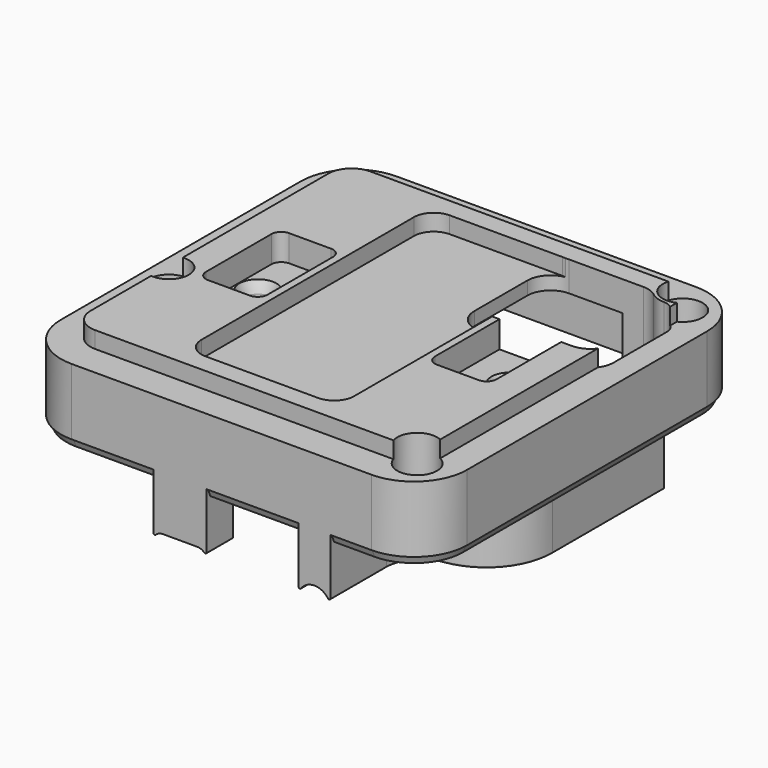
from build123d import *

# Parameters (mm, degrees)
PAD016_DEPTH         = 27.5
POCKET034_DEPTH      = 185.6284208373
SKETCH105_W          = 70
SKETCH105_H          = 70
POCKET036_DEPTH      = 2.501
SKETCH114_W          = 70
SKETCH114_H          = 16
POCKET051_DEPTH      = 30.601
POCKET051_DEPTH_BACK = 30.601
PAD020_DEPTH         = 5
SKETCH134_R          = 2.3
SKETCH135_R          = 4
POCKET052_DEPTH      = 9
POCKET053_DEPTH      = 0.001
POCKET053_DEPTH_BACK = 22.501
SKETCH138_R          = 6.5
POCKET054_DEPTH      = 12.8357525158
POCKET056_DEPTH      = 2.5010001


with BuildPart() as part:
    # Sketch096 → Pad016 (new body)
    with BuildSketch(Plane.XY.offset(2.5)):
        with BuildLine():
            Line((-22.6, 30.6), (22.6, 30.6))
            ThreePointArc((30.6, 22.6), (28.2568542495, 28.2568542495), (22.6, 30.6))
            Line((30.6, 22.6), (30.6, -22.6))
            ThreePointArc((22.6, -30.6), (28.2568542495, -28.2568542495), (30.6, -22.6))
            Line((22.6, -30.6), (-22.6, -30.6))
            ThreePointArc((-30.6, -22.6), (-28.2568542495, -28.2568542495), (-22.6, -30.6))
            Line((-30.6, -22.6), (-30.6, 22.6))
            ThreePointArc((-22.6, 30.6), (-28.2568542495, 28.2568542495), (-30.6, 22.6))
        make_face()
    extrude(amount=-PAD016_DEPTH)

    # Sketch103 → Pocket034 (cut, through all)
    with BuildSketch(Plane.XY.offset(-1.5)):
        with BuildLine():
            Line((14.1, 7.65), (20.4, 7.65))
            ThreePointArc((21.9, 6.15), (21.4606601718, 7.2106601718), (20.4, 7.65))
            Line((21.9, 6.15), (21.9, -6.15))
            ThreePointArc((20.4, -7.65), (21.4606601718, -7.2106601718), (21.9, -6.15))
            Line((20.4, -7.65), (14.1, -7.65))
            ThreePointArc((12.6, -6.15), (13.0393398282, -7.2106601718), (14.1, -7.65))
            Line((12.6, -6.15), (12.6, 6.15))
            ThreePointArc((14.1, 7.65), (13.0393398282, 7.2106601718), (12.6, 6.15))
        make_face()
    pocket034 = extrude(amount=POCKET034_DEPTH, mode=Mode.SUBTRACT)

    # Mirrored008: Pocket034 across YZ
    add(pocket034.mirror(Plane.YZ), mode=Mode.SUBTRACT)

    # Sketch105 → Pocket036 (cut, through all)
    with BuildSketch(Plane.XY):
        Rectangle(SKETCH105_W, SKETCH105_H)
        with BuildLine():
            Line((-22.8, 25.9), (22.8, 25.9))
            ThreePointArc((26.3, 22.4), (25.2748737342, 24.8748737342), (22.8, 25.9))
            Line((26.3, 22.4), (26.3, -22.4))
            ThreePointArc((22.8, -25.9), (25.2748737342, -24.8748737342), (26.3, -22.4))
            Line((22.8, -25.9), (-22.8, -25.9))
            ThreePointArc((-26.3, -22.4), (-25.2748737342, -24.8748737342), (-22.8, -25.9))
            Line((-26.3, -22.4), (-26.3, 22.4))
            ThreePointArc((-22.8, 25.9), (-25.2748737342, 24.8748737342), (-26.3, 22.4))
        make_face(mode=Mode.SUBTRACT)
    extrude(amount=POCKET036_DEPTH, mode=Mode.SUBTRACT)

    # Sketch107 → Groove012 (revolve, cut)
    with BuildSketch(Plane.XZ):
        Polygon((19, -1.5), (21.8, -1.5), (21.2, -3.1484864517), (21.2, -13.5), (19, -13.5), align=None)
    groove012 = revolve(axis=Axis((19, 0, -1.5), (0, 0, 1)), mode=Mode.SUBTRACT)

    # Mirrored009: Groove012 across YZ
    add(groove012.mirror(Plane.YZ), mode=Mode.SUBTRACT)

    # Sketch114 → Pocket051 (cut, two sides)
    with BuildSketch(Plane.XZ) as pocket051_sk:
        with Locations((0, -18)):
            Rectangle(SKETCH114_W, SKETCH114_H)
    extrude(amount=-POCKET051_DEPTH, mode=Mode.SUBTRACT)
    extrude(pocket051_sk.sketch, amount=POCKET051_DEPTH_BACK, mode=Mode.SUBTRACT)

    # AdditivePipe004: sweep along a path in Sketch130
    with BuildLine(Plane.XY) as additivepipe004_path:
        Line((27, 16), (27, -5))
        ThreePointArc((27, -5), (25.1488749734, -9.9623583103), (20.5, -12.5))
        ThreePointArc((20.5, -12.5), (15.8511250266, -15.0376416897), (14, -20))
        Line((14, -20), (14, -30.6))
    # Sketch131 → AdditivePipe004 (sweep)
    with BuildSketch(Plane.XZ):
        with BuildLine():
            ThreePointArc((29.037037037, -18.5506966813), (27, -17.5), (24.962962963, -18.5506966813))
            ThreePointArc((24.6, -18.4347524158), (24.7391419381, -18.6252682846), (24.962962963, -18.5506966813))
            Line((24.6, -10), (24.6, -18.4347524158))
            Line((29.4, -10), (24.6, -10))
            Line((29.4, -18.4347524157), (29.4, -10))
            ThreePointArc((29.037037037, -18.5506966812), (29.2608580619, -18.6252682846), (29.4, -18.4347524157))
        make_face()
    sweep(path=additivepipe004_path.line)

    # Sketch110 → Pad020 (join)
    with BuildSketch(Plane.XZ.offset(30.6)):
        with BuildLine():
            ThreePointArc((-8.85, -18.1), (-9.4228261259, -18.2136846573), (-9.9088235294, -18.5375063607))
            ThreePointArc((-10.25, -18.3958405421), (-10.1266964989, -18.5805501712), (-9.9088235294, -18.5375063607))
            Line((-10.25, -10), (-10.25, -18.3958405421))
            Line((-2.25, -10), (-10.25, -10))
            Line((-2.25, -18.3958405421), (-2.25, -10))
            ThreePointArc((-2.5911764706, -18.5375063607), (-2.3733035011, -18.5805501712), (-2.25, -18.3958405421))
            ThreePointArc((-2.5911764706, -18.5375063607), (-3.0771738741, -18.2136846573), (-3.65, -18.1))
            Line((-8.85, -18.1), (-3.65, -18.1))
        make_face()
    extrude(amount=-PAD020_DEPTH)

    # Sketch134 → AdditiveLoft section 0
    with BuildSketch(Plane.XY.offset(-17.5)):
        with Locations((-6, -6.5)):
            Circle(SKETCH134_R)
    # Sketch135 → AdditiveLoft section 1
    with BuildSketch(Plane.XY.offset(-10)):
        with Locations((-6, -6.5)):
            Circle(SKETCH135_R)
    loft()

    # AdditivePipe005: sweep along a path in Sketch136
    with BuildLine(Plane.XY) as additivepipe005_path:
        Line((-22.5, 29.5), (22.5, 29.5))
        ThreePointArc((22.5, 29.5), (27.4497474683, 27.4497474683), (29.5, 22.5))
        Line((29.5, 22.5), (29.5, -22.5))
        ThreePointArc((29.5, -22.5), (27.4497474683, -27.4497474683), (22.5, -29.5))
        Line((22.5, -29.5), (-22.5, -29.5))
        ThreePointArc((-22.5, -29.5), (-27.4497474683, -27.4497474683), (-29.5, -22.5))
        Line((-29.5, -22.5), (-29.5, 22.5))
        ThreePointArc((-29.5, 22.5), (-27.4497474683, 27.4497474683), (-22.5, 29.5))
    # Sketch137 → AdditivePipe005 (sweep)
    with BuildSketch(Plane.YZ):
        Polygon((30.3970562748, -10), (28.6029437252, -10), (29.1, -11.2), (29.9, -11.2), align=None)
    sweep(path=additivepipe005_path.line)

    # Sketch104 → Pocket052 (cut, symmetric)
    with BuildSketch(Plane.XY.offset(-11)):
        Polygon((-26.5, 27), (17.5, 27), (17.5, 23), (15.5, 23), (15.5, 7), (-25.5, 7), (-25.5, 23), (-26.5, 23), align=None)
    extrude(amount=POCKET052_DEPTH, both=True, mode=Mode.SUBTRACT)

    # Sketch099 → Groove018 (revolve, cut)
    with BuildSketch(Plane.XZ.offset(8)):
        Polygon((-26, 3), (-26, -24), (-24.2, -24), (-24.2, -8), (-23, -6.8), (-23, 3), align=None)
    revolve(axis=Axis((-26, -8, 3), (0, 0, 1)), mode=Mode.SUBTRACT)

    # Sketch100 → Groove019 (revolve, cut)
    with BuildSketch(Plane.XZ.offset(25)):
        Polygon((25, 3), (25, -24), (26.8, -24), (26.8, -8), (28, -6.8), (28, 3), align=None)
    revolve(axis=Axis((25, -25, 3), (0, 0, 1)), mode=Mode.SUBTRACT)

    # Sketch101 → Groove020 (revolve, cut)
    with BuildSketch(Plane.XZ.offset(-25)):
        Polygon((25, 3), (25, -24), (26.8, -24), (26.8, -8), (28, -6.8), (28, 3), align=None)
    revolve(axis=Axis((25, 25, 3), (0, 0, 1)), mode=Mode.SUBTRACT)

    # Sketch113 → Pocket053 (cut, two sides)
    with BuildSketch(Plane.XY.offset(-20)) as pocket053_sk:
        with BuildLine():
            ThreePointArc((22.8349364905, 22.25), (23.8543560763, 21.6928108612), (25, 21.5))
            ThreePointArc((27, 19.5), (26.4142135624, 20.9142135624), (25, 21.5))
            Line((27, 9.5), (27, 19.5))
            ThreePointArc((23.5, 6), (25.9748737342, 7.0251262658), (27, 9.5))
            Line((9.5, 6), (23.5, 6))
            ThreePointArc((6, 9.5), (7.0251262658, 7.0251262658), (9.5, 6))
            Line((6, 19.5), (6, 9.5))
            ThreePointArc((9.5, 23), (7.0251262658, 21.9748737342), (6, 19.5))
            Line((20.6698729811, 23), (9.5, 23))
            ThreePointArc((22.8349364905, 22.25), (21.8155169048, 22.8071891388), (20.6698729811, 23))
        make_face()
    extrude(amount=-POCKET053_DEPTH, mode=Mode.SUBTRACT)
    extrude(pocket053_sk.sketch, amount=POCKET053_DEPTH_BACK, mode=Mode.SUBTRACT)

    # Sketch138 → Pocket054 (cut, through all)
    with BuildSketch(Plane.XY.offset(-5.8)):
        with Locations((19, 0)):
            Circle(SKETCH138_R)
        with Locations((-19, 0)):
            Circle(SKETCH138_R)
    extrude(amount=-POCKET054_DEPTH, mode=Mode.SUBTRACT)

    # Sketch144 → Pocket056 (cut, through all)
    with BuildSketch(Plane.XY):
        with BuildLine():
            Line((-8.5, 23), (8.5, 23))
            ThreePointArc((11.5, 20), (10.6213203436, 22.1213203436), (8.5, 23))
            Line((11.5, 20), (11.5, -20))
            ThreePointArc((8.5, -23), (10.6213203436, -22.1213203436), (11.5, -20))
            Line((8.5, -23), (-8.5, -23))
            ThreePointArc((-11.5, -20), (-10.6213203436, -22.1213203436), (-8.5, -23))
            Line((-11.5, -20), (-11.5, 20))
            ThreePointArc((-8.5, 23), (-10.6213203436, 22.1213203436), (-11.5, 20))
        make_face()
    extrude(amount=POCKET056_DEPTH, mode=Mode.SUBTRACT)


solid = part.part
